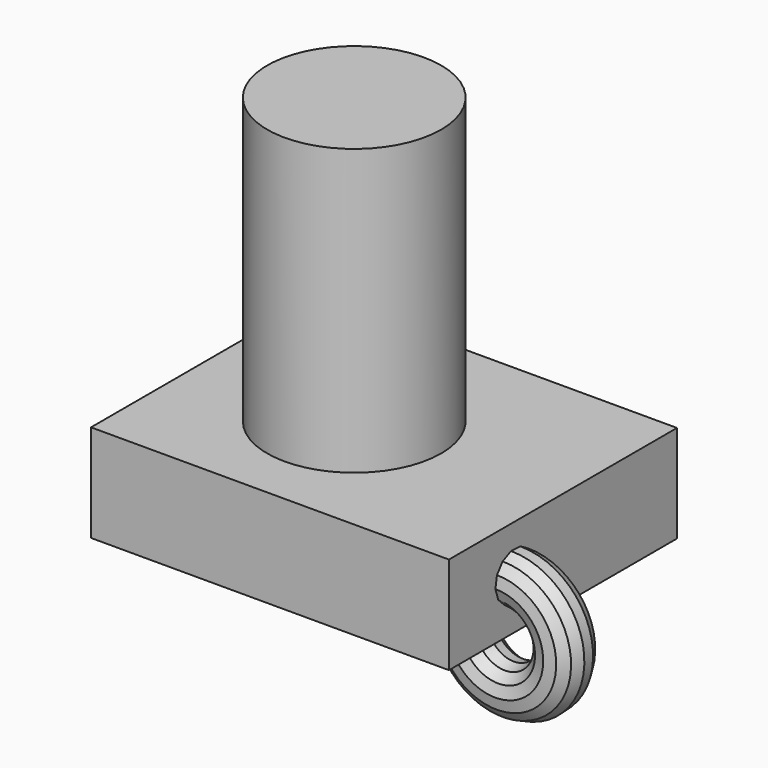
from build123d import *

# Parameters (mm, degrees)
F0_W     = 31.893385
F0_H     = 8.678393
F1_DEPTH = 25.4
F2_R     = 7.751677
F3_DEPTH = 25.4


with BuildPart() as f1:
    # F0 (on Front) → F1 (new body)
    with BuildSketch(Plane.XZ):
        with Locations((-3.546326, 40.397231)):
            Rectangle(F0_W, F0_H)
    extrude(amount=F1_DEPTH)

    # F4 (on face) → F5 (revolve)
    with BuildSketch(Plane.YZ.offset(12.400367)):
        Polygon((-16.358305, 39.159517), (-15.943985, 40.106532), (-16.017223, 41.137617), (-16.561241, 42.016562), (-17.451411, 42.542012), (-18.483806, 42.593591), (-19.421917, 42.159485), (-20.050833, 41.339141), (-20.226478, 40.320491), (-19.908614, 39.336894), (-19.170058, 38.613682), (-18.180007, 38.316533), (-17.165268, 38.51352), align=None)
    revolve(axis=Axis((12.400367, -12.7, 36.058035), (0, -1, 0)))


with BuildPart() as f3:
    # F2 (on face) → F3 (new body)
    with BuildSketch(Plane.XY.offset(44.736428)):
        with Locations((-5.758584, -13.253067)):
            Circle(F2_R)
    extrude(amount=F3_DEPTH)


solid = Compound([f1.part, f3.part])
